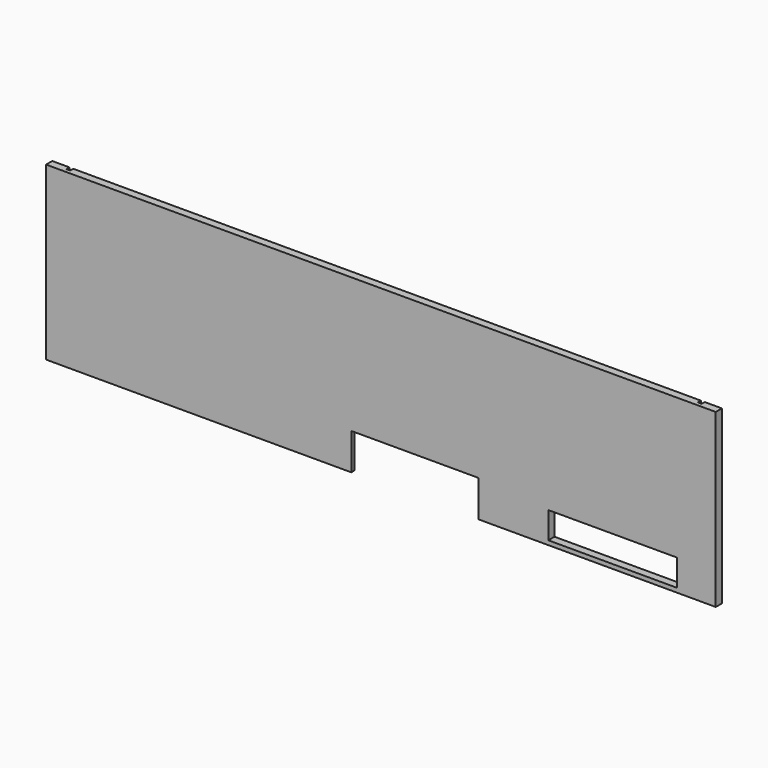
from build123d import *

# Parameters (mm, degrees)
F0_W      = 740
F0_H      = 200
F1_DEPTH  = 9
F2_W      = 4.5
F2_H      = 200
F3_DEPTH  = 4.5
F4_W      = 4.5
F4_H      = 200
F5_DEPTH  = 4.5
F6_W      = 731
F6_H      = 4.5
F7_DEPTH  = 4.5
F8_W      = 150
F8_H      = 31
F9_DEPTH  = 9
F10_W     = 148
F10_H     = 42.5
F11_DEPTH = 9.001
F12_W     = 4.5
F12_H     = 45
F13_DEPTH = 4.5
F14_W     = 9
F14_H     = 200
F15_DEPTH = 20
F16_W     = 9
F16_H     = 200
F17_DEPTH = 20


with BuildPart() as f1:
    # F0 (on Front) → F1 (new body)
    with BuildSketch(Plane.XZ):
        Rectangle(F0_W, F0_H)
    extrude(amount=F1_DEPTH)

    # F2 (on face) → F3 (cut)
    with BuildSketch(Plane.YZ.offset(370)):
        with Locations((-2.25, 0)):
            Rectangle(F2_W, F2_H)
    extrude(amount=-F3_DEPTH, mode=Mode.SUBTRACT)

    # F4 (on face) → F5 (cut)
    with BuildSketch(Plane(origin=(-370, 0, 0), x_dir=(0, -1, 0), z_dir=(-1, 0, 0))):
        with Locations((2.25, 0)):
            Rectangle(F4_W, F4_H)
    extrude(amount=-F5_DEPTH, mode=Mode.SUBTRACT)

    # F6 (on face) → F7 (cut)
    with BuildSketch(Plane(origin=(0, 0, 0), x_dir=(-1, 0, 0), z_dir=(0, 1, 0))):
        with Locations((0, -52.75)):
            Rectangle(F6_W, F6_H)
    extrude(amount=-F7_DEPTH, mode=Mode.SUBTRACT)

    # F8 (on face) → F9 (cut, through all)
    with BuildSketch(Plane.XZ.offset(9)):
        with Locations((270, -79.5)):
            Rectangle(F8_W, F8_H)
    extrude(amount=-F9_DEPTH, mode=Mode.SUBTRACT)

    # F10 (on face) → F11 (cut, through all)
    with BuildSketch(Plane(origin=(0, 0, 0), x_dir=(-1, 0, 0), z_dir=(0, 1, 0))):
        with Locations((-39.5, -78.75)):
            Rectangle(F10_W, F10_H)
    extrude(amount=-F11_DEPTH, mode=Mode.SUBTRACT)

    # F12 (on face) → F13 (cut)
    with BuildSketch(Plane(origin=(0, 0, 0), x_dir=(-1, 0, 0), z_dir=(0, 1, 0))):
        with Locations((36.75, -77.5)):
            Rectangle(F12_W, F12_H)
        with Locations((-115.75, -77.5)):
            Rectangle(F12_W, F12_H)
    extrude(amount=-F13_DEPTH, mode=Mode.SUBTRACT)

    # F14 (on face) → F15 (join)
    with BuildSketch(Plane.YZ.offset(370)):
        with Locations((-4.5, 0)):
            Rectangle(F14_W, F14_H)
    extrude(amount=F15_DEPTH)

    # F16 (on face) → F17 (join)
    with BuildSketch(Plane(origin=(-370, 0, 0), x_dir=(0, -1, 0), z_dir=(-1, 0, 0))):
        with Locations((4.5, 0)):
            Rectangle(F16_W, F16_H)
    extrude(amount=F17_DEPTH)


solid = f1.part
